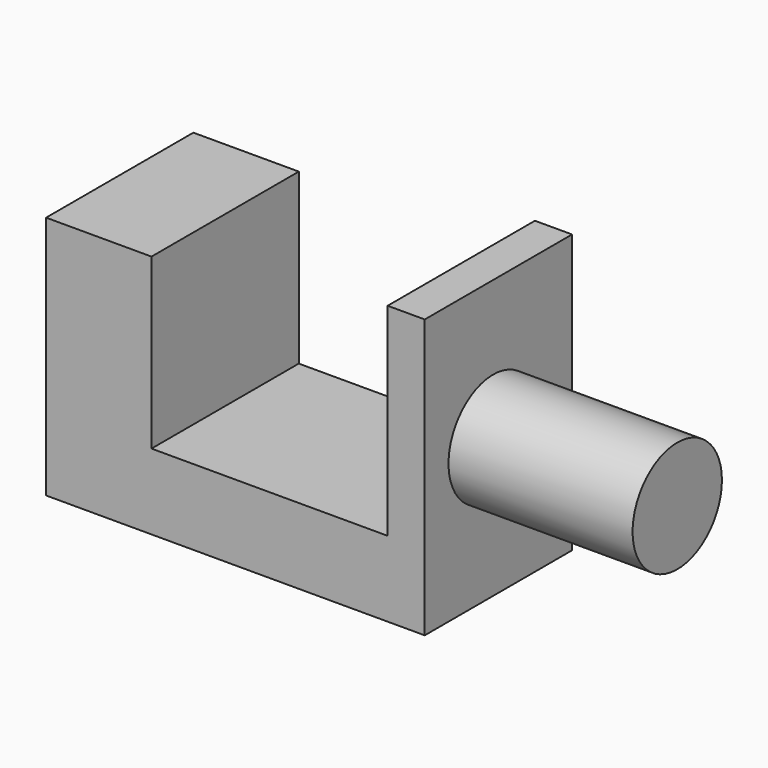
from build123d import *

# Parameters (mm, degrees)
F1_DEPTH = 25.4
F2_R     = 7.699785
F3_DEPTH = 25.4


with BuildPart() as f1:
    # F0 (on Front) → F1 (new body)
    with BuildSketch(Plane.XZ):
        Polygon((0, 33.744156), (0, 0), (52.241661, 0), (52.241661, 38.369093), (47.122207, 38.369093), (47.122207, 10.425531), (14.543891, 10.425531), (14.543891, 33.744156), align=None)
    extrude(amount=F1_DEPTH)

    # F2 (on face) → F3 (join)
    with BuildSketch(Plane.YZ.offset(52.241661)):
        with Locations((-13.601066, 19.184543)):
            Circle(F2_R)
    extrude(amount=F3_DEPTH)


solid = f1.part
